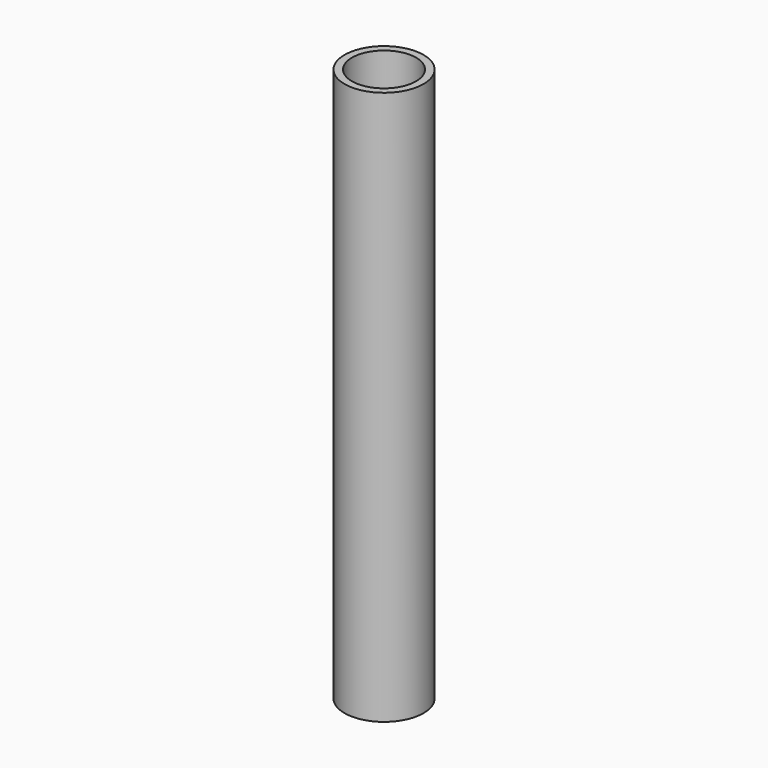
from build123d import *

# Parameters (mm, degrees)
SKETCH_R   = 25.4
SKETCH_R_2 = 20.6
PAD_DEPTH  = 356


with BuildPart() as part:
    # Sketch → Pad (new body)
    with BuildSketch(Plane.XY):
        Circle(SKETCH_R)
        Circle(SKETCH_R_2, mode=Mode.SUBTRACT)
    extrude(amount=PAD_DEPTH)


solid = part.part
